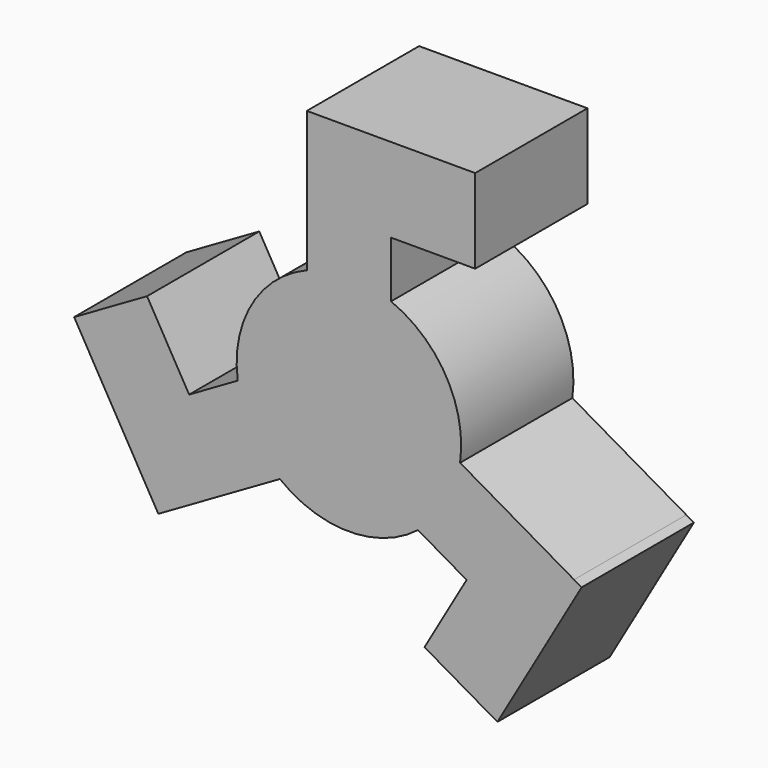
from build123d import *

# Parameters (mm, degrees)
F1_DEPTH = 5


with BuildPart() as f1:
    # F0 (on Front) → F1 (new body)
    with BuildSketch(Plane.XZ):
        with BuildLine():
            Line((-1.5, 8.397197), (-1.5, 3.708099))
            ThreePointArc((-1.5, 3.708099), (-3.464102, 2), (-3.961308, -0.555012))
            Line((-3.961308, -0.555012), (-5.693359, -1.555012))
            Line((-5.693359, -1.555012), (-7.193359, 1.043065))
            Line((-7.193359, 1.043065), (-9.791435, -0.456935))
            Line((-9.791435, -0.456935), (-6.791435, -5.653088))
            Line((-6.791435, -5.653088), (-6.522186, -5.497637))
            Line((-6.522186, -5.497637), (-2.461308, -3.153088))
            ThreePointArc((-2.461308, -3.153088), (0, -4), (2.461308, -3.153088))
            Line((2.461308, -3.153088), (4.193359, -4.153088))
            Line((4.193359, -4.153088), (2.693359, -6.751164))
            Line((2.693359, -6.751164), (5.291435, -8.251164))
            Line((5.291435, -8.251164), (8.291435, -3.055012))
            Line((8.291435, -3.055012), (8.022186, -2.899561))
            Line((8.022186, -2.899561), (3.961308, -0.555012))
            ThreePointArc((3.961308, -0.555012), (3.464102, 2), (1.5, 3.708099))
            Line((1.5, 3.708099), (1.5, 5.708099))
            Line((1.5, 5.708099), (4.5, 5.708099))
            Line((4.5, 5.708099), (4.5, 8.708099))
            Line((4.5, 8.708099), (-1.5, 8.708099))
            Line((-1.5, 8.708099), (-1.5, 8.397197))
        make_face()
    extrude(amount=F1_DEPTH)


solid = f1.part
